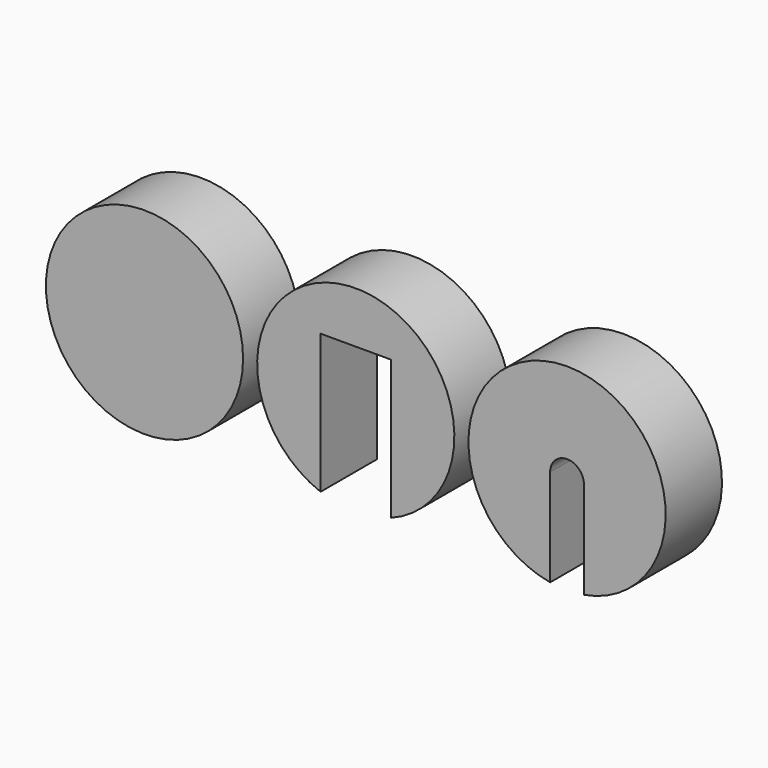
from build123d import *

# Parameters (mm, degrees)
F0_R     = 35
F1_DEPTH = 25


with BuildPart() as f1:
    # F0 (on Front) → F1 (new body)
    with BuildSketch(Plane.XZ):
        with Locations((-75, 0)):
            Circle(F0_R)
        with BuildLine():
            Line((81, 0), (81, -34.481879))
            ThreePointArc((81, -34.481879), (75, 35), (69, -34.481879))
            Line((69, -34.481879), (69, 0))
            ThreePointArc((69, 0), (75, 6), (81, 0))
        make_face()
        with BuildLine():
            Line((12.5, -16.75), (12.5, -32.691742))
            ThreePointArc((12.5, -32.691742), (0, 35), (-12.5, -32.691742))
            Line((-12.5, -32.691742), (-12.5, -16.75))
            Line((-12.5, -16.75), (-12.5, 16.75))
            Line((-12.5, 16.75), (12.5, 16.75))
            Line((12.5, 16.75), (12.5, -16.75))
        make_face()
    extrude(amount=F1_DEPTH)


solid = f1.part
